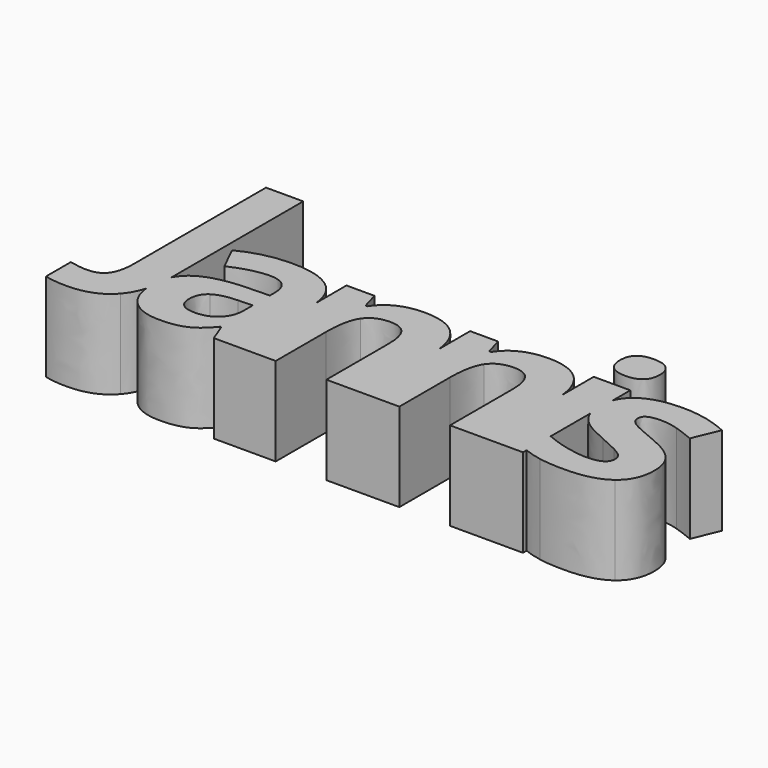
from build123d import *

# Parameters (mm, degrees)
F1_DEPTH = 10
F2_W     = 2
F2_H     = 8
F3_DEPTH = 5


with BuildPart() as f1:
    # F0 (on Top) → F1 (new body)
    with BuildSketch(Plane.XY):
        with BuildLine():
            add(Edge.make_bspline(
                [(-117.2144911618, 24.9218766938), (-118.6381022729, 24.9218766938), (-119.6971300507, 25.2213558604)],
                knots=[0, 0, 0, 1, 1, 1], degree=2))
            add(Edge.make_bspline(
                [(-112.5204807452, 26.7404530827), (-114.1068522729, 24.9218766938), (-117.2144911618, 24.9218766938)],
                knots=[0, 0, 0, 1, 1, 1], degree=2))
            add(Edge.make_bspline(
                [(-111.3527603206, 28.9001798701), (-111.7490547311, 27.6247964476), (-112.5204807452, 26.7404530827)],
                knots=[0.5137166795, 0.5137166795, 0.5137166795, 1, 1, 1], degree=2))
            add(Edge.make_bspline(
                [(-111.3527603206, 28.9001798701), (-111.4037272729, 29.3218926659), (-111.4037272729, 29.7864600271)],
                knots=[0.7984250094, 0.7984250094, 0.7984250094, 1, 1, 1], degree=2))
            add(Edge.make_bspline(
                [(-111.4037272729, 29.7864600271), (-111.4037272729, 31.0590537687), (-110.9341986644, 31.9791993002)],
                knots=[0, 0, 0, 0.5273481979, 0.5273481979, 0.5273481979], degree=2))
            add(Edge.make_bspline(
                [(-110.9341092174, 32.0312516938), (-110.9341092174, 32.0051788769), (-110.9341986644, 31.9791993002)],
                knots=[0, 0, 0, 0.0075089713, 0.0075089713, 0.0075089713], degree=2))
            Line((-110.9341092174, 32.0312516938), (-110.9341092174, 50.5859391938))
            Line((-110.9341092174, 50.5859391938), (-115.139838384, 50.5859391938))
            Line((-115.139838384, 50.5859391938), (-115.139838384, 32.0052100271))
            add(Edge.make_bspline(
                [(-115.7366265785, 29.312067666), (-115.139838384, 30.1736128049), (-115.139838384, 32.0052100271)],
                knots=[0, 0, 0, 1, 1, 1], degree=2))
            add(Edge.make_bspline(
                [(-117.717963384, 28.4505225271), (-116.3334147729, 28.4505225271), (-115.7366265785, 29.312067666)],
                knots=[0, 0, 0, 1, 1, 1], degree=2))
            add(Edge.make_bspline(
                [(-119.6971300507, 28.7196197493), (-118.6120606063, 28.4505225271), (-117.717963384, 28.4505225271)],
                knots=[0, 0, 0, 1, 1, 1], degree=2))
            Line((-119.6971300507, 28.7196197493), (-119.6971300507, 25.2213558604))
        make_face()
        with BuildLine():
            add(Edge.make_bspline(
                [(-111.3527603206, 28.9001798701), (-111.4037272729, 29.3218926659), (-111.4037272729, 29.7864600271)],
                knots=[0.7984250094, 0.7984250094, 0.7984250094, 1, 1, 1], degree=2))
            add(Edge.make_bspline(
                [(-110.9341986644, 31.9791993002), (-110.9402286198, 30.2278193184), (-111.3527603206, 28.9001798701)],
                knots=[0.0075089713, 0.0075089713, 0.0075089713, 0.5137166795, 0.5137166795, 0.5137166795], degree=2))
            add(Edge.make_bspline(
                [(-111.4037272729, 29.7864600271), (-111.4037272729, 31.0590537687), (-110.9341986644, 31.9791993002)],
                knots=[0, 0, 0, 0.5273481979, 0.5273481979, 0.5273481979], degree=2))
        make_face()
        with BuildLine():
            add(Edge.make_bspline(
                [(-110.9341986644, 31.9791993002), (-110.9402286198, 30.2278193184), (-111.3527603206, 28.9001798701)],
                knots=[0.0075089713, 0.0075089713, 0.0075089713, 0.5137166795, 0.5137166795, 0.5137166795], degree=2))
            add(Edge.make_bspline(
                [(-110.1493869952, 26.2317725271), (-111.1508836432, 27.2298037888), (-111.3527603206, 28.9001798701)],
                knots=[0, 0, 0, 0.7984250094, 0.7984250094, 0.7984250094], degree=2))
            add(Edge.make_bspline(
                [(-106.7118869952, 24.9817725271), (-108.8950467174, 24.9817725271), (-110.1493869952, 26.2317725271)],
                knots=[0, 0, 0, 1, 1, 1], degree=2))
            add(Edge.make_bspline(
                [(-103.8299425507, 25.491755166), (-104.936713384, 24.9817725271), (-106.7118869952, 24.9817725271)],
                knots=[0, 0, 0, 1, 1, 1], degree=2))
            add(Edge.make_bspline(
                [(-101.6815050507, 27.3168419715), (-102.7231717174, 26.0017378049), (-103.8299425507, 25.491755166)],
                knots=[0, 0, 0, 1, 1, 1], degree=2))
            Line((-101.6815050507, 27.3168419715), (-101.5729981063, 27.3168419715))
            Line((-101.5729981063, 27.3168419715), (-100.7700467174, 25.2552100271))
            Line((-100.7700467174, 25.2552100271), (-97.9124078285, 25.2552100271))
            Line((-97.9124078285, 25.2552100271), (-97.9124078285, 36.0548004764))
            add(Edge.make_bspline(
                [(-99.5113661618, 39.4023454438), (-98.0996880883, 38.2485338983), (-97.9124078285, 36.0548004764)],
                knots=[0, 0, 0, 0.8673350084, 0.8673350084, 0.8673350084], degree=2))
            add(Edge.make_bspline(
                [(-104.1901856063, 40.7326405827), (-101.1389703285, 40.7326405827), (-99.5113661618, 39.4023454438)],
                knots=[0, 0, 0, 1, 1, 1], degree=2))
            add(Edge.make_bspline(
                [(-109.9931369952, 39.3611128049), (-107.3759494952, 40.7326405827), (-104.1901856063, 40.7326405827)],
                knots=[0, 0, 0, 1, 1, 1], degree=2))
            Line((-109.9931369952, 39.3611128049), (-108.6259494952, 36.565973916))
            add(Edge.make_bspline(
                [(-104.350775884, 37.6640641938), (-106.1693522729, 37.6640641938), (-108.6259494952, 36.565973916)],
                knots=[0, 0, 0, 1, 1, 1], degree=2))
            add(Edge.make_bspline(
                [(-101.9896647729, 35.3593766938), (-101.9896647729, 37.6640641938), (-104.350775884, 37.6640641938)],
                knots=[0, 0, 0, 1, 1, 1], degree=2))
            Line((-101.9896647729, 35.3593766938), (-101.9896647729, 34.6953141938))
            Line((-101.9896647729, 34.6953141938), (-104.624213384, 34.612848916))
            add(Edge.make_bspline(
                [(-109.7153592174, 33.3454878049), (-108.0269911618, 34.4913211382), (-104.624213384, 34.612848916)],
                knots=[0, 0, 0, 1, 1, 1], degree=2))
            add(Edge.make_bspline(
                [(-110.9341986644, 31.9791993002), (-110.5133694214, 32.803907615), (-109.7153592174, 33.3454878049)],
                knots=[0.5273481979, 0.5273481979, 0.5273481979, 1, 1, 1], degree=2))
        make_face()
        with BuildLine():
            Line((-103.5912272729, 32.2256961382), (-101.9896647729, 32.2821197493))
            Line((-101.9896647729, 32.2821197493), (-101.9896647729, 31.0321197493))
            add(Edge.make_bspline(
                [(-102.8512099118, 28.8359391938), (-101.9896647729, 29.6649322493), (-101.9896647729, 31.0321197493)],
                knots=[0, 0, 0, 1, 1, 1], degree=2))
            add(Edge.make_bspline(
                [(-105.1537272729, 28.0069461382), (-103.7127550507, 28.0069461382), (-102.8512099118, 28.8359391938)],
                knots=[0, 0, 0, 1, 1, 1], degree=2))
            add(Edge.make_bspline(
                [(-107.1589356063, 29.7604183604), (-107.1589356063, 28.0069461382), (-105.1537272729, 28.0069461382)],
                knots=[0, 0, 0, 1, 1, 1], degree=2))
            add(Edge.make_bspline(
                [(-106.2778592174, 31.5768246104), (-107.1589356063, 30.980036416), (-107.1589356063, 29.7604183604)],
                knots=[0, 0, 0, 1, 1, 1], degree=2))
            add(Edge.make_bspline(
                [(-103.5912272729, 32.2256961382), (-105.3967828285, 32.1736128049), (-106.2778592174, 31.5768246104)],
                knots=[0, 0, 0, 1, 1, 1], degree=2))
        make_face(mode=Mode.SUBTRACT)
        with BuildLine():
            Line((-97.9124078285, 36.0548004764), (-97.9124078285, 25.2552100271))
            Line((-97.9124078285, 25.2552100271), (-97.8837619952, 25.2552100271))
            Line((-97.8837619952, 25.2552100271), (-97.8837619952, 35.3593766938))
            add(Edge.make_bspline(
                [(-97.9124078285, 36.0548004764), (-97.8837619952, 35.7192535156), (-97.8837619952, 35.3593766938)],
                knots=[0.8673350084, 0.8673350084, 0.8673350084, 1, 1, 1], degree=2))
        make_face()
        with BuildLine():
            Line((-97.8837619952, 35.3593766938), (-97.8837619952, 25.2552100271))
            Line((-97.8837619952, 25.2552100271), (-93.7761231063, 25.2552100271))
            Line((-93.7761231063, 25.2552100271), (-93.7761231063, 32.3906266938))
            add(Edge.make_bspline(
                [(-93.0035536618, 36.2361128049), (-93.7761231063, 35.0772586382), (-93.7761231063, 32.3906266938)],
                knots=[0, 0, 0, 1, 1, 1], degree=2))
            add(Edge.make_bspline(
                [(-90.4948731063, 37.3949669715), (-92.2309842174, 37.3949669715), (-93.0035536618, 36.2361128049)],
                knots=[0, 0, 0, 1, 1, 1], degree=2))
            add(Edge.make_bspline(
                [(-88.6350640785, 36.5746544715), (-89.2188314396, 37.3949669715), (-90.4948731063, 37.3949669715)],
                knots=[0, 0, 0, 1, 1, 1], degree=2))
            add(Edge.make_bspline(
                [(-88.0512967174, 34.1137169715), (-88.0512967174, 35.7543419715), (-88.6350640785, 36.5746544715)],
                knots=[0, 0, 0, 1, 1, 1], degree=2))
            Line((-88.0512967174, 34.1137169715), (-88.0512967174, 25.2552100271))
            Line((-88.0512967174, 25.2552100271), (-83.9436578285, 25.2552100271))
            Line((-83.9436578285, 25.2552100271), (-83.9436578285, 35.8967318133))
            add(Edge.make_bspline(
                [(-85.284369634, 39.2721371104), (-84.1130685292, 38.0488606793), (-83.9436578285, 35.8967318133)],
                knots=[0, 0, 0, 0.855365371, 0.855365371, 0.855365371], degree=2))
            add(Edge.make_bspline(
                [(-89.3012967174, 40.7022586382), (-86.6537272729, 40.7022586382), (-85.284369634, 39.2721371104)],
                knots=[0, 0, 0, 1, 1, 1], degree=2))
            add(Edge.make_bspline(
                [(-92.0595432452, 40.140192666), (-90.8464356063, 40.7022586382), (-89.3012967174, 40.7022586382)],
                knots=[0, 0, 0, 1, 1, 1], degree=2))
            add(Edge.make_bspline(
                [(-93.9670953285, 38.480036416), (-93.272650884, 39.5781266938), (-92.0595432452, 40.140192666)],
                knots=[0, 0, 0, 1, 1, 1], degree=2))
            Line((-93.9670953285, 38.480036416), (-94.1971300507, 38.480036416))
            Line((-94.1971300507, 38.480036416), (-94.7526856063, 40.4201405827))
            Line((-94.7526856063, 40.4201405827), (-97.9124078285, 40.4201405827))
            Line((-97.9124078285, 40.4201405827), (-97.9124078285, 36.0548004764))
            add(Edge.make_bspline(
                [(-97.9124078285, 36.0548004764), (-97.8837619952, 35.7192535156), (-97.8837619952, 35.3593766938)],
                knots=[0.8673350084, 0.8673350084, 0.8673350084, 1, 1, 1], degree=2))
        make_face()
        with BuildLine():
            Line((-83.9436578285, 35.8967318133), (-83.9436578285, 25.2552100271))
            Line((-83.9436578285, 25.2552100271), (-83.9150119952, 25.2552100271))
            Line((-83.9150119952, 25.2552100271), (-83.9150119952, 35.1423628049))
            add(Edge.make_bspline(
                [(-83.9436578285, 35.8967318133), (-83.9150119952, 35.5328260829), (-83.9150119952, 35.1423628049)],
                knots=[0.855365371, 0.855365371, 0.855365371, 1, 1, 1], degree=2))
        make_face()
        with BuildLine():
            Line((-83.9436578285, 40.4201405827), (-83.9436578285, 35.8967318133))
            add(Edge.make_bspline(
                [(-83.9436578285, 35.8967318133), (-83.9150119952, 35.5328260829), (-83.9150119952, 35.1423628049)],
                knots=[0.855365371, 0.855365371, 0.855365371, 1, 1, 1], degree=2))
            Line((-83.9150119952, 35.1423628049), (-83.9150119952, 25.2552100271))
            Line((-83.9150119952, 25.2552100271), (-79.8073731063, 25.2552100271))
            Line((-79.8073731063, 25.2552100271), (-79.8073731063, 32.3906266938))
            add(Edge.make_bspline(
                [(-79.0348036618, 36.2361128049), (-79.8073731063, 35.0772586382), (-79.8073731063, 32.3906266938)],
                knots=[0, 0, 0, 1, 1, 1], degree=2))
            add(Edge.make_bspline(
                [(-76.5261231063, 37.3949669715), (-78.2622342174, 37.3949669715), (-79.0348036618, 36.2361128049)],
                knots=[0, 0, 0, 1, 1, 1], degree=2))
            add(Edge.make_bspline(
                [(-74.6663140785, 36.5746544715), (-75.2500814396, 37.3949669715), (-76.5261231063, 37.3949669715)],
                knots=[0, 0, 0, 1, 1, 1], degree=2))
            add(Edge.make_bspline(
                [(-74.0825467174, 34.1137169715), (-74.0825467174, 35.7543419715), (-74.6663140785, 36.5746544715)],
                knots=[0, 0, 0, 1, 1, 1], degree=2))
            Line((-74.0825467174, 34.1137169715), (-74.0825467174, 25.2552100271))
            Line((-74.0825467174, 25.2552100271), (-69.9749078285, 25.2552100271))
            Line((-69.9749078285, 25.2552100271), (-69.9749078285, 35.8967318133))
            add(Edge.make_bspline(
                [(-71.315619634, 39.2721371104), (-70.1443185292, 38.0488606793), (-69.9749078285, 35.8967318133)],
                knots=[0, 0, 0, 0.855365371, 0.855365371, 0.855365371], degree=2))
            add(Edge.make_bspline(
                [(-75.3325467174, 40.7022586382), (-72.6849772729, 40.7022586382), (-71.315619634, 39.2721371104)],
                knots=[0, 0, 0, 1, 1, 1], degree=2))
            add(Edge.make_bspline(
                [(-78.0907932452, 40.140192666), (-76.8776856063, 40.7022586382), (-75.3325467174, 40.7022586382)],
                knots=[0, 0, 0, 1, 1, 1], degree=2))
            add(Edge.make_bspline(
                [(-79.9983453285, 38.480036416), (-79.303900884, 39.5781266938), (-78.0907932452, 40.140192666)],
                knots=[0, 0, 0, 1, 1, 1], degree=2))
            Line((-79.9983453285, 38.480036416), (-80.2283800507, 38.480036416))
            Line((-80.2283800507, 38.480036416), (-80.7839356063, 40.4201405827))
            Line((-80.7839356063, 40.4201405827), (-83.9436578285, 40.4201405827))
        make_face()
        with BuildLine():
            Line((-69.9749078285, 40.4201405827), (-69.9749078285, 35.8967318133))
            add(Edge.make_bspline(
                [(-69.9749078285, 35.8967318133), (-69.9462619952, 35.5328260829), (-69.9462619952, 35.1423628049)],
                knots=[0.855365371, 0.855365371, 0.855365371, 1, 1, 1], degree=2))
            Line((-69.9462619952, 35.1423628049), (-69.9462619952, 25.2552100271))
            Line((-69.9462619952, 25.2552100271), (-65.8386231063, 25.2552100271))
            Line((-65.8386231063, 25.2552100271), (-65.8386231063, 25.7716399544))
            add(Edge.make_bspline(
                [(-65.8386231063, 25.7716399544), (-65.955480884, 25.8180810503), (-66.0703939396, 25.8671891938)],
                knots=[0.8868548375, 0.8868548375, 0.8868548375, 1, 1, 1], degree=2))
            Line((-66.0703939396, 25.8671891938), (-66.0703939396, 29.2829878049))
            add(Edge.make_bspline(
                [(-66.0703939396, 29.2829878049), (-65.9559690534, 29.229013802), (-65.8386231063, 29.1767795486)],
                knots=[0, 0, 0, 0.0994848822, 0.0994848822, 0.0994848822], degree=2))
            Line((-65.8386231063, 29.1767795486), (-65.8386231063, 34.7660211695))
            add(Edge.make_bspline(
                [(-65.8386231063, 34.7660211695), (-66.0964356063, 35.4901020749), (-66.0964356063, 36.4704878049)],
                knots=[0.1664912465, 0.1664912465, 0.1664912465, 1, 1, 1], degree=2))
            add(Edge.make_bspline(
                [(-66.0964356063, 36.4704878049), (-66.0964356063, 37.2914894548), (-65.8386231063, 37.9612363371)],
                knots=[0, 0, 0, 0.4059201291, 0.4059201291, 0.4059201291], degree=2))
            Line((-65.8386231063, 37.9612363371), (-65.8386231063, 40.4201405827))
            Line((-65.8386231063, 40.4201405827), (-69.9749078285, 40.4201405827))
        make_face()
        with BuildLine():
            add(Edge.make_bspline(
                [(-69.9749078285, 35.8967318133), (-69.9462619952, 35.5328260829), (-69.9462619952, 35.1423628049)],
                knots=[0.855365371, 0.855365371, 0.855365371, 1, 1, 1], degree=2))
            Line((-69.9749078285, 35.8967318133), (-69.9749078285, 25.2552100271))
            Line((-69.9749078285, 25.2552100271), (-69.9462619952, 25.2552100271))
            Line((-69.9462619952, 25.2552100271), (-69.9462619952, 35.1423628049))
        make_face()
        with BuildLine():
            add(Edge.make_bspline(
                [(-65.8386231063, 37.9612363371), (-65.4613045015, 38.9414369058), (-64.5317654674, 39.5976579438)],
                knots=[0.4059201291, 0.4059201291, 0.4059201291, 1, 1, 1], degree=2))
            Line((-65.8386231063, 37.9612363371), (-65.8386231063, 34.7660211695))
            add(Edge.make_bspline(
                [(-65.7253418563, 34.4869808604), (-65.7871257173, 34.6213878563), (-65.8386231063, 34.7660211695)],
                knots=[0, 0, 0, 0.1664912465, 0.1664912465, 0.1664912465], degree=2))
            add(Edge.make_bspline(
                [(-64.5317654674, 33.0546891938), (-65.3542481063, 33.6796891938), (-65.7253418563, 34.4869808604)],
                knots=[0, 0, 0, 1, 1, 1], degree=2))
            add(Edge.make_bspline(
                [(-61.960150884, 31.6961822493), (-63.7092828285, 32.4296891938), (-64.5317654674, 33.0546891938)],
                knots=[0, 0, 0, 1, 1, 1], degree=2))
            add(Edge.make_bspline(
                [(-60.0091960229, 30.7977447493), (-60.7405328285, 31.1840294715), (-61.960150884, 31.6961822493)],
                knots=[0, 0, 0, 1, 1, 1], degree=2))
            add(Edge.make_bspline(
                [(-58.9783800507, 30.1054704438), (-59.2778592174, 30.4114600271), (-60.0091960229, 30.7977447493)],
                knots=[0, 0, 0, 1, 1, 1], degree=2))
            add(Edge.make_bspline(
                [(-58.678900884, 29.3090294715), (-58.678900884, 29.7994808604), (-58.9783800507, 30.1054704438)],
                knots=[0, 0, 0, 1, 1, 1], degree=2))
            add(Edge.make_bspline(
                [(-60.9315050507, 28.0069461382), (-58.678900884, 28.0069461382), (-58.678900884, 29.3090294715)],
                knots=[0, 0, 0, 1, 1, 1], degree=2))
            add(Edge.make_bspline(
                [(-63.4749078285, 28.3736996104), (-62.0295953285, 28.0069461382), (-60.9315050507, 28.0069461382)],
                knots=[0, 0, 0, 1, 1, 1], degree=2))
            add(Edge.make_bspline(
                [(-65.8386231063, 29.1767795486), (-64.7764335847, 28.7039666567), (-63.4749078285, 28.3736996104)],
                knots=[0.0994848822, 0.0994848822, 0.0994848822, 1, 1, 1], degree=2))
            Line((-65.8386231063, 29.1767795486), (-65.8386231063, 25.7716399544))
            add(Edge.make_bspline(
                [(-63.8872342174, 25.2074669715), (-64.9226680338, 25.4076251814), (-65.8386231063, 25.7716399544)],
                knots=[0, 0, 0, 0.8868548375, 0.8868548375, 0.8868548375], degree=2))
            add(Edge.make_bspline(
                [(-61.0660536618, 24.9817725271), (-62.7196994952, 24.9817725271), (-63.8872342174, 25.2074669715)],
                knots=[0, 0, 0, 1, 1, 1], degree=2))
            add(Edge.make_bspline(
                [(-56.2157932452, 26.2035607215), (-57.8368869952, 24.9817725271), (-61.0660536618, 24.9817725271)],
                knots=[0, 0, 0, 1, 1, 1], degree=2))
            add(Edge.make_bspline(
                [(-54.5946994952, 29.7604183604), (-54.5946994952, 27.425348916), (-56.2157932452, 26.2035607215)],
                knots=[0, 0, 0, 1, 1, 1], degree=2))
            add(Edge.make_bspline(
                [(-54.9896647729, 31.6983523882), (-54.5946994952, 30.8845503049), (-54.5946994952, 29.7604183604)],
                knots=[0, 0, 0, 1, 1, 1], degree=2))
            add(Edge.make_bspline(
                [(-56.2114529674, 33.1349843327), (-55.3846300507, 32.5121544715), (-54.9896647729, 31.6983523882)],
                knots=[0, 0, 0, 1, 1, 1], degree=2))
            add(Edge.make_bspline(
                [(-58.8134494952, 34.4783003049), (-57.038275884, 33.7578141938), (-56.2114529674, 33.1349843327)],
                knots=[0, 0, 0, 1, 1, 1], degree=2))
            add(Edge.make_bspline(
                [(-61.4002550507, 35.6848975271), (-60.8099772729, 35.276911416), (-58.8134494952, 34.4783003049)],
                knots=[0, 0, 0, 1, 1, 1], degree=2))
            add(Edge.make_bspline(
                [(-61.9905328285, 36.6484391938), (-61.9905328285, 36.0928836382), (-61.4002550507, 35.6848975271)],
                knots=[0, 0, 0, 1, 1, 1], degree=2))
            add(Edge.make_bspline(
                [(-60.1589356063, 37.6380225271), (-61.9905328285, 37.6380225271), (-61.9905328285, 36.6484391938)],
                knots=[0, 0, 0, 1, 1, 1], degree=2))
            add(Edge.make_bspline(
                [(-58.1363661618, 37.3255225271), (-59.1259494952, 37.6380225271), (-60.1589356063, 37.6380225271)],
                knots=[0, 0, 0, 1, 1, 1], degree=2))
            add(Edge.make_bspline(
                [(-56.0052897729, 36.526911416), (-57.1467828285, 37.0130225271), (-58.1363661618, 37.3255225271)],
                knots=[0, 0, 0, 1, 1, 1], degree=2))
            Line((-56.0052897729, 36.526911416), (-54.7596300507, 39.5086822493))
            add(Edge.make_bspline(
                [(-60.0894911618, 40.7022586382), (-57.350775884, 40.7022586382), (-54.7596300507, 39.5086822493)],
                knots=[0, 0, 0, 1, 1, 1], degree=2))
            add(Edge.make_bspline(
                [(-64.5317654674, 39.5976579438), (-62.9670953285, 40.7022586382), (-60.0894911618, 40.7022586382)],
                knots=[0, 0, 0, 1, 1, 1], degree=2))
        make_face()
        with BuildLine():
            Line((-65.8386231063, 34.7660211695), (-65.8386231063, 37.9612363371))
            add(Edge.make_bspline(
                [(-66.0964356063, 36.4704878049), (-66.0964356063, 37.2914894548), (-65.8386231063, 37.9612363371)],
                knots=[0, 0, 0, 0.4059201291, 0.4059201291, 0.4059201291], degree=2))
            add(Edge.make_bspline(
                [(-65.8386231063, 34.7660211695), (-66.0964356063, 35.4901020749), (-66.0964356063, 36.4704878049)],
                knots=[0.1664912465, 0.1664912465, 0.1664912465, 1, 1, 1], degree=2))
        make_face()
        with BuildLine():
            add(Edge.make_bspline(
                [(-65.8386231063, 25.7716399544), (-65.955480884, 25.8180810503), (-66.0703939396, 25.8671891938)],
                knots=[0.8868548375, 0.8868548375, 0.8868548375, 1, 1, 1], degree=2))
            Line((-65.8386231063, 25.7716399544), (-65.8386231063, 29.1767795486))
            add(Edge.make_bspline(
                [(-66.0703939396, 29.2829878049), (-65.9559690534, 29.229013802), (-65.8386231063, 29.1767795486)],
                knots=[0, 0, 0, 0.0994848822, 0.0994848822, 0.0994848822], degree=2))
            Line((-66.0703939396, 29.2829878049), (-66.0703939396, 25.8671891938))
        make_face()
        with BuildLine():
            add(Edge.make_bspline(
                [(-70.1528592174, 44.339411416), (-70.1528592174, 46.3619808604), (-67.9002550507, 46.3619808604)],
                knots=[0, 0, 0, 1, 1, 1], degree=2))
            add(Edge.make_bspline(
                [(-67.9002550507, 42.3038211382), (-70.1528592174, 42.3038211382), (-70.1528592174, 44.339411416)],
                knots=[0, 0, 0, 1, 1, 1], degree=2))
            add(Edge.make_bspline(
                [(-66.2097168563, 42.8398454438), (-66.7717828285, 42.3038211382), (-67.9002550507, 42.3038211382)],
                knots=[0, 0, 0, 1, 1, 1], degree=2))
            add(Edge.make_bspline(
                [(-65.647650884, 44.339411416), (-65.647650884, 43.3758697493), (-66.2097168563, 42.8398454438)],
                knots=[0, 0, 0, 1, 1, 1], degree=2))
            add(Edge.make_bspline(
                [(-67.9002550507, 46.3619808604), (-65.647650884, 46.3619808604), (-65.647650884, 44.339411416)],
                knots=[0, 0, 0, 1, 1, 1], degree=2))
        make_face()
    extrude(amount=F1_DEPTH)


with BuildPart() as f3:
    # F2 (on Top) → F3 (new body)
    with BuildSketch(Plane.XY):
        with Locations((-67.8031854331, 39.5678562575)):
            Rectangle(F2_W, F2_H)
    extrude(amount=F3_DEPTH)


solid = Compound([f1.part, f3.part])
